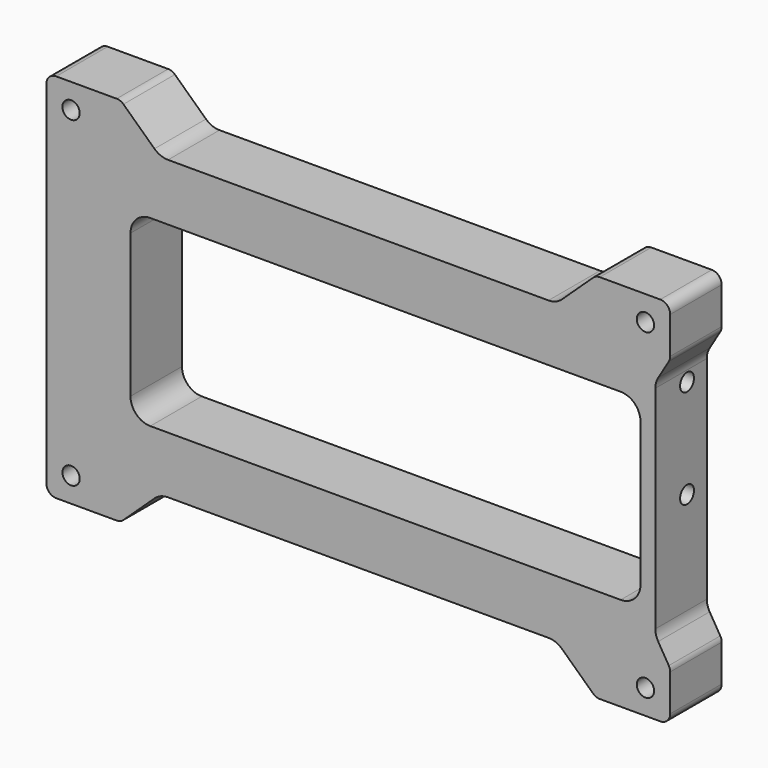
from build123d import *

# Parameters (mm, degrees)
F1_DEPTH = 13
F3_DEPTH = 25
F5_DEPTH = 25
F6_R     = 1.75
F7_DEPTH = 10
F8_R     = 1.75
F9_DEPTH = 25
F10_R    = 4
F11_R    = 2


with BuildPart() as f1:
    # F0 (on Front) → F1 (new body)
    with BuildSketch(Plane.XZ):
        Polygon((0, 75), (0, 0), (15, 0), (23, 7.5), (103, 7.5), (111, 0), (126, 0), (126, 75), (111, 75), (103, 67.5), (23, 67.5), (15, 75), align=None)
    extrude(amount=F1_DEPTH)

    # F2 (on face) → F3 (cut)
    with BuildSketch(Plane.XZ.offset(13)):
        with BuildLine():
            Line((116, 56), (21, 56))
            ThreePointArc((21, 56), (18.1715728753, 54.8284271247), (17, 52))
            Line((17, 52), (17, 23))
            ThreePointArc((17, 23), (18.1715728753, 20.1715728753), (21, 19))
            Line((21, 19), (116, 19))
            ThreePointArc((116, 19), (118.8284271247, 20.1715728753), (120, 23))
            Line((120, 23), (120, 52))
            ThreePointArc((120, 52), (118.8284271247, 54.8284271247), (116, 56))
        make_face()
    extrude(amount=-F3_DEPTH, mode=Mode.SUBTRACT)

    # F4 (on face) → F5 (cut)
    with BuildSketch(Plane.XZ.offset(13)):
        Polygon((126, 65), (123, 60), (123, 15), (126, 10), align=None)
    extrude(amount=-F5_DEPTH, mode=Mode.SUBTRACT)

    # F6 (on face) → F7 (cut)
    with BuildSketch(Plane.YZ.offset(123)):
        with Locations((-5, 36.75)):
            Circle(F6_R)
        with Locations((-5, 56.75)):
            Circle(F6_R)
    extrude(amount=-F7_DEPTH, mode=Mode.SUBTRACT)

    # F8 (on face) → F9 (cut)
    with BuildSketch(Plane.XZ.offset(13)):
        with Locations((5, 70)):
            Circle(F8_R)
        with Locations((5, 5)):
            Circle(F8_R)
        with Locations((121, 5)):
            Circle(F8_R)
        with Locations((121, 70)):
            Circle(F8_R)
    extrude(amount=-F9_DEPTH, mode=Mode.SUBTRACT)

    # F10
    f10_edges = [f1.edges().sort_by_distance(p)[0] for p in [
        (23, -6.5, 7.5),
        (103, -6.5, 7.5),
        (123, -6.5, 15),
        (123, -6.5, 60),
        (103, -6.5, 67.5),
        (23, -6.5, 67.5),
    ]]
    fillet(f10_edges, radius=F10_R)

    # F11
    f11_edges = [f1.edges().sort_by_distance(p)[0] for p in [
        (0, -6.5, 75),
        (0, -6.5, 0),
        (15, -6.5, 0),
        (111, -6.5, 0),
        (126, -6.5, 0),
        (126, -6.5, 10),
        (126, -6.5, 65),
        (126, -6.5, 75),
        (111, -6.5, 75),
        (15, -6.5, 75),
    ]]
    fillet(f11_edges, radius=F11_R)


solid = f1.part
